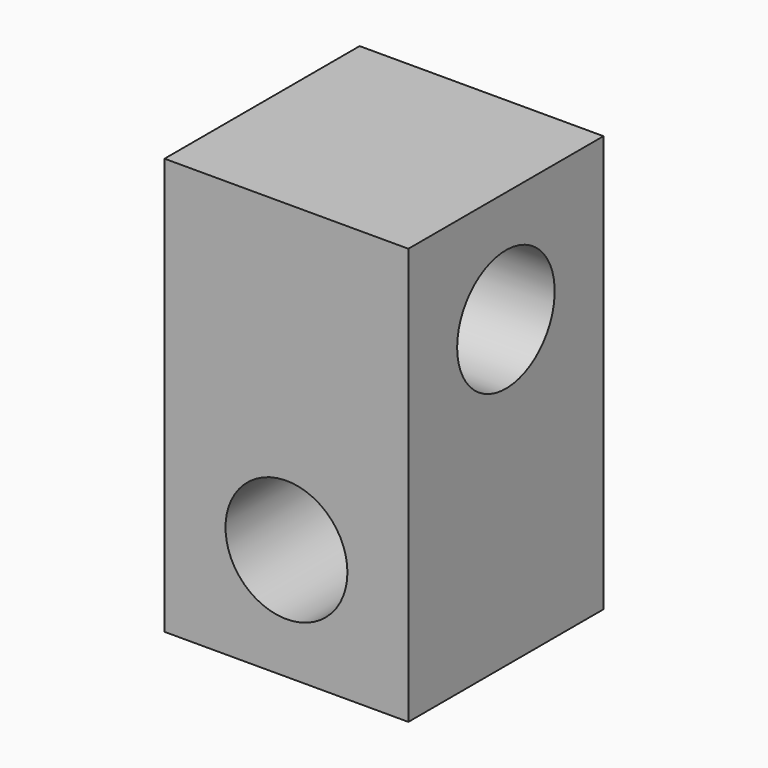
from build123d import *

# Parameters (mm, degrees)
F0_W     = 24
F0_H     = 24
F1_DEPTH = 41
F2_R     = 6
F3_DEPTH = 25
F4_R     = 6
F5_DEPTH = 25


with BuildPart() as f1:
    # F0 (on Top) → F1 (new body)
    with BuildSketch(Plane.XY):
        with Locations((12, 12)):
            Rectangle(F0_W, F0_H)
    extrude(amount=F1_DEPTH)

    # F2 (on face) → F3 (cut)
    with BuildSketch(Plane.XZ):
        with Locations((12, 11)):
            Circle(F2_R)
    extrude(amount=-F3_DEPTH, mode=Mode.SUBTRACT)

    # F4 (on face) → F5 (cut)
    with BuildSketch(Plane(origin=(0, 0, 0), x_dir=(0, -1, 0), z_dir=(-1, 0, 0))):
        with Locations((-12, 30)):
            Circle(F4_R)
    extrude(amount=-F5_DEPTH, mode=Mode.SUBTRACT)


solid = f1.part
